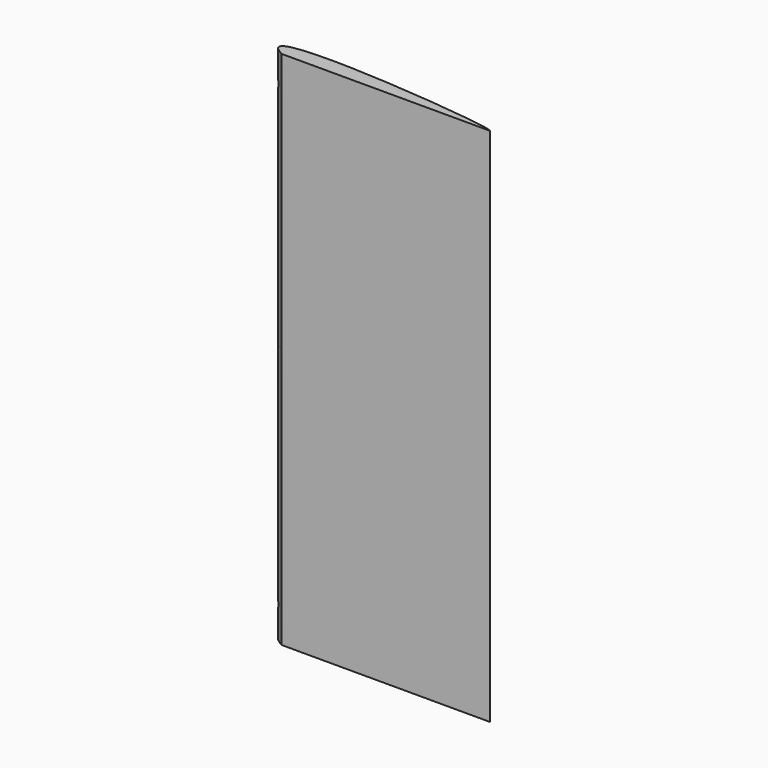
from build123d import *

# Parameters (mm, degrees)
F1_DEPTH = 75


with BuildPart() as f1:
    # F0 (on Top) → F1 (new body, symmetric)
    with BuildSketch(Plane.XY):
        with BuildLine():
            add(Edge.make_bspline(
                [(-31.4195839986, 9.0615461363), (-49.1720996797, 18.3812212199), (27.898401022, 10.9167657793), (28.5804160014, 9.0615461363)],
                knots=[0, 0, 0, 0, 60, 60, 60, 60], degree=3))
            Line((-31.4195839986, 9.0615461363), (28.5804160014, 9.0615461363))
        make_face()
    extrude(amount=F1_DEPTH, both=True)


solid = f1.part
